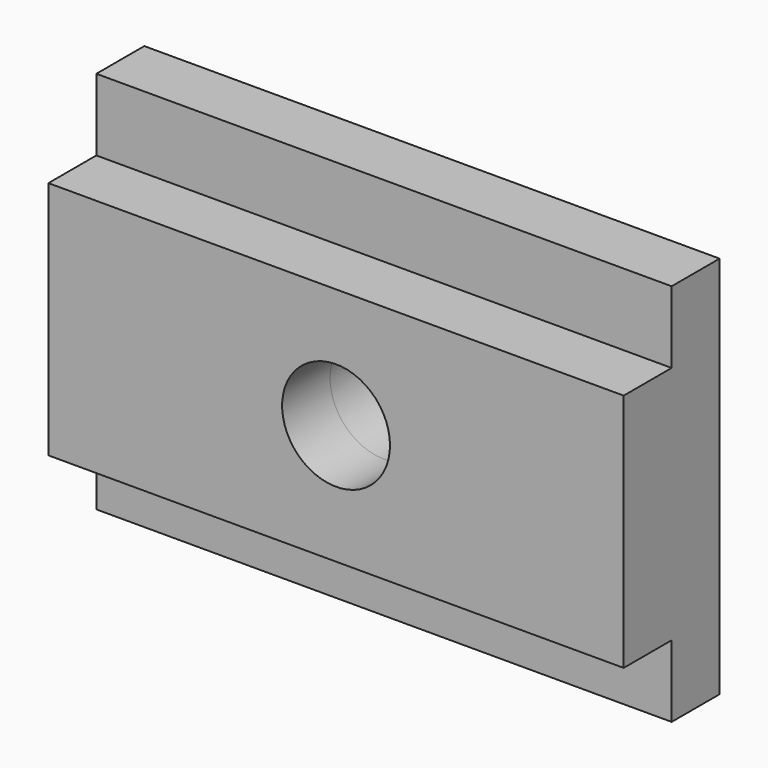
from build123d import *

# Parameters (mm, degrees)
F0_W     = 152.4
F0_H     = 63.5
F0_R     = 14.2875
F1_DEPTH = 15.875
F0_H_2   = 19.05
F2_DEPTH = 15.875


with BuildPart() as f1:
    # F0 (on Front) → F1 (new body)
    with BuildSketch(Plane.XZ):
        Rectangle(F0_W, F0_H)
        Circle(F0_R, mode=Mode.SUBTRACT)
    extrude(amount=F1_DEPTH)

    # F0 (on Front) → F2 (join)
    with BuildSketch(Plane.XZ):
        with Locations((0, 41.275)):
            Rectangle(F0_W, F0_H_2)
        Rectangle(F0_W, F0_H)
        Circle(F0_R, mode=Mode.SUBTRACT)
        with Locations((0, -41.275)):
            Rectangle(F0_W, F0_H_2)
    extrude(amount=-F2_DEPTH)


solid = f1.part
